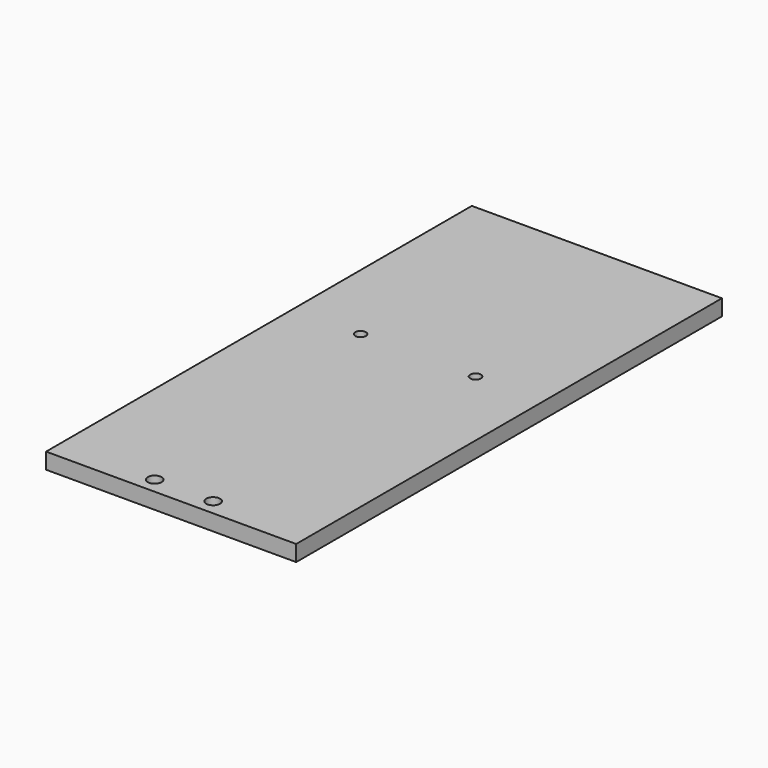
from build123d import *

# Parameters (mm, degrees)
F0_W     = 235
F0_H     = 500
F1_DEPTH = 15
F2_R     = 4
F3_DEPTH = 25
F4_R     = 6.5
F5_DEPTH = 8
F6_R     = 5
F7_DEPTH = 15.001


with BuildPart() as f1:
    # F0 (on Top) → F1 (new body)
    with BuildSketch(Plane.XY):
        Rectangle(F0_W, F0_H)
    extrude(amount=F1_DEPTH)

    # F2 (on face) → F3 (cut)
    with BuildSketch(Plane.XY.offset(15)):
        with Locations((27.5, -235)):
            Circle(F2_R)
        with Locations((-27.5, -235)):
            Circle(F2_R)
    extrude(amount=-F3_DEPTH, mode=Mode.SUBTRACT)

    # F4 (on face) → F5 (cut)
    with BuildSketch(Plane.XY.offset(15)):
        with Locations((27.5, -235)):
            Circle(F4_R)
        with Locations((-27.5, -235)):
            Circle(F4_R)
    extrude(amount=-F5_DEPTH, mode=Mode.SUBTRACT)

    # F6 (on face) → F7 (cut, through all)
    with BuildSketch(Plane(origin=(0, 0, 0), x_dir=(1, 0, 0), z_dir=(0, 0, -1))):
        with Locations((54, -40)):
            Circle(F6_R)
        with Locations((-54, -40)):
            Circle(F6_R)
    extrude(amount=-F7_DEPTH, mode=Mode.SUBTRACT)


solid = f1.part
